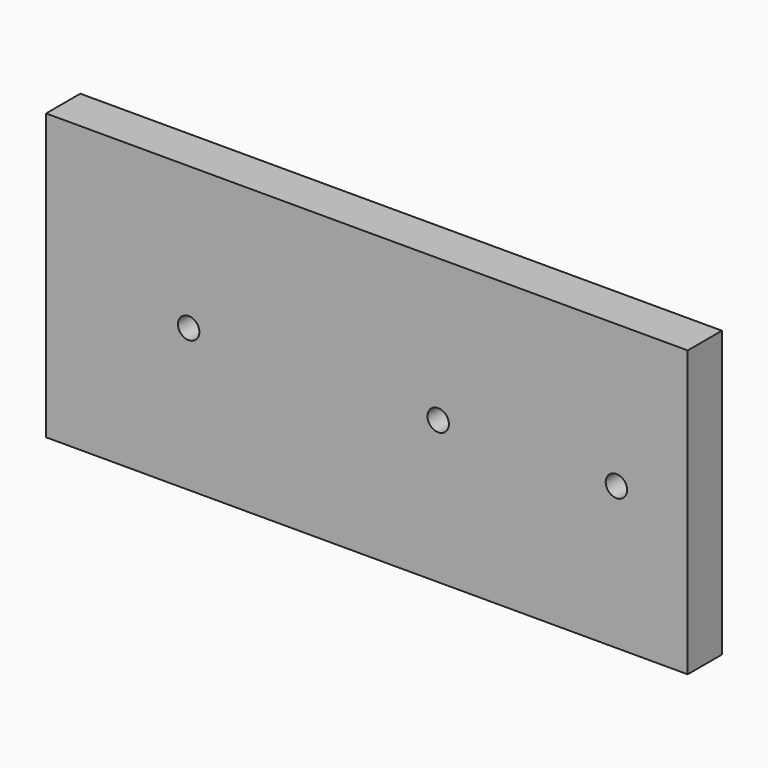
from build123d import *

# Parameters (mm, degrees)
F0_W     = 90
F0_H     = 40
F0_R     = 1.5
F1_DEPTH = 3


with BuildPart() as f1:
    # F0 (on Front) → F1 (new body, symmetric)
    with BuildSketch(Plane.XZ):
        with Locations((-45, 20)):
            Rectangle(F0_W, F0_H)
        with Locations((-70, 20)):
            Circle(F0_R, mode=Mode.SUBTRACT)
        with Locations((-35, 20)):
            Circle(F0_R, mode=Mode.SUBTRACT)
        with Locations((-10, 20)):
            Circle(F0_R, mode=Mode.SUBTRACT)
    extrude(amount=F1_DEPTH, both=True)


solid = f1.part
